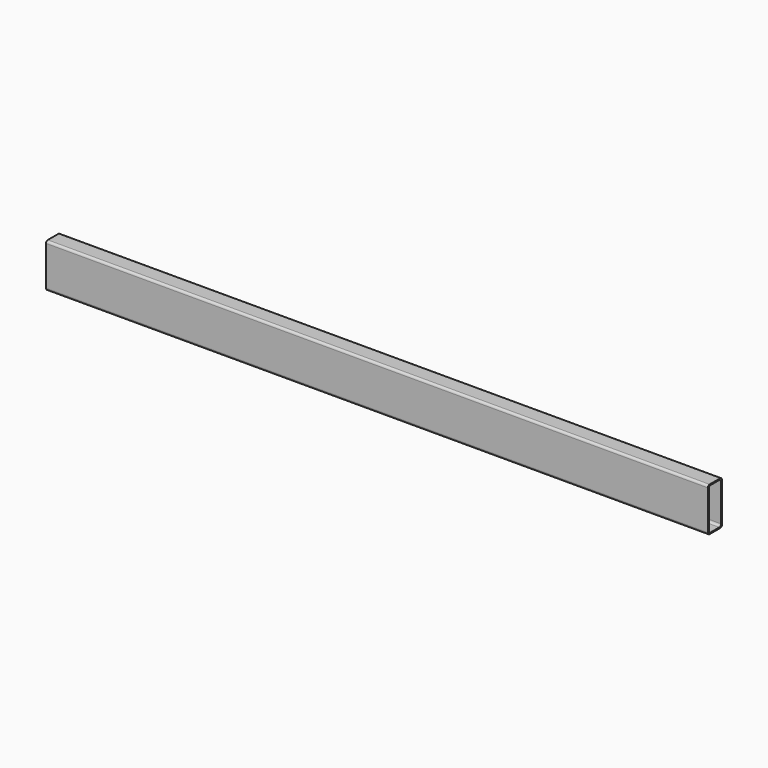
from build123d import *

# Parameters (mm, degrees)
F1_DEPTH = 1917.7


with BuildPart() as f1:
    # F0 (on Right) → F1 (new body)
    with BuildSketch(Plane.YZ):
        with BuildLine():
            Line((19.05, 63.5), (-19.05, 63.5))
            ThreePointArc((-19.05, 63.5), (-23.540128, 61.640128), (-25.4, 57.15))
            Line((-25.4, 57.15), (-25.4, -57.15))
            ThreePointArc((-25.4, -57.15), (-23.540128, -61.640128), (-19.05, -63.5))
            Line((-19.05, -63.5), (19.05, -63.5))
            ThreePointArc((19.05, -63.5), (23.540128, -61.640128), (25.4, -57.15))
            Line((25.4, -57.15), (25.4, 57.15))
            ThreePointArc((25.4, 57.15), (23.540128, 61.640128), (19.05, 63.5))
        make_face()
        with BuildLine():
            Line((-15.875, 60.325), (15.875, 60.325))
            ThreePointArc((15.875, 60.325), (20.365128, 58.465128), (22.225, 53.975))
            Line((22.225, 53.975), (22.225, -53.975))
            ThreePointArc((22.225, -53.975), (20.365128, -58.465128), (15.875, -60.325))
            Line((15.875, -60.325), (-15.875, -60.325))
            ThreePointArc((-15.875, -60.325), (-20.365128, -58.465128), (-22.225, -53.975))
            Line((-22.225, -53.975), (-22.225, 53.975))
            ThreePointArc((-22.225, 53.975), (-20.365128, 58.465128), (-15.875, 60.325))
        make_face(mode=Mode.SUBTRACT)
    extrude(amount=F1_DEPTH)


solid = f1.part
